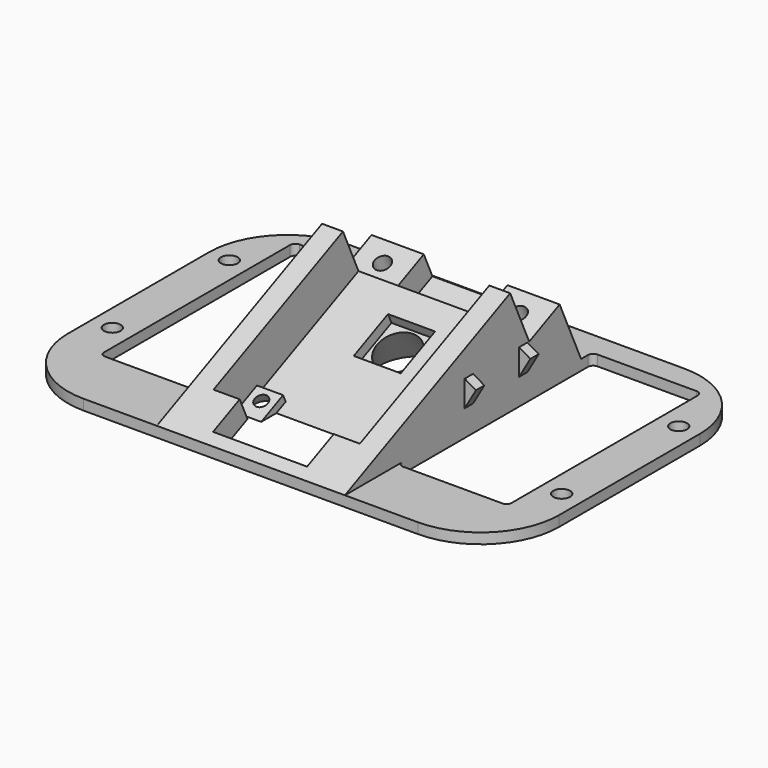
from build123d import *

# Parameters (mm, degrees)
PAD127_DEPTH       = 2
PAD128_DEPTH       = 18
PAD128_DEPTH_BACK  = 18
SKETCH333_W        = 21
SKETCH333_H        = 46.5
POCKET160_DEPTH    = 2
FILLET052_R        = 1
POCKET161_DEPTH    = 36
SKETCH335_W        = 28
SKETCH335_H        = 9
POCKET162_DEPTH    = 26
POCKET163_DEPTH    = 15
POCKET164_DEPTH    = 8
POCKET164_FACE50_W = 7
POCKET164_FACE50_H = 18
POCKET165_DEPTH    = 5
SKETCH338_R        = 5
SKETCH337_R        = 1.25
SKETCH339_W        = 9
SKETCH339_H        = 9
POCKET166_DEPTH    = 2
SKETCH341_R        = 12
SKETCH340_R        = 4
SKETCH_R           = 1.6
POCKET_DEPTH       = 5
PAD_DEPTH          = 2
PAD129_DEPTH       = 2
SKETCH346_R        = 1.5
POCKET167_DEPTH    = 5
SKETCH349_W        = 16
SKETCH349_H        = 8
POCKET169_DEPTH    = 5


with BuildPart() as part:
    # Sketch331 → Pad127 (new body)
    with BuildSketch(Plane.XY.offset(42)):
        with BuildLine():
            ThreePointArc((10, 0.35), (14.3933982822, -10.2566017178), (25, -14.65))
            Line((25, -14.65), (89, -14.65))
            ThreePointArc((89, -14.65), (99.6066017178, -10.2566017178), (104, 0.35))
            Line((104, 34.05), (104, 0.35))
            ThreePointArc((104, 34.05), (99.6066017178, 44.6566017178), (89, 49.05))
            Line((25, 49.05), (89, 49.05))
            ThreePointArc((25, 49.05), (14.3933982822, 44.6566017178), (10, 34.05))
            Line((10, 34.05), (10, 0.35))
        make_face()
    extrude(amount=PAD127_DEPTH)

    # Sketch332 → Pad128 (join, two sides)
    with BuildSketch(Plane.YZ.offset(57)) as pad128_sk:
        Polygon((-14.65, 44), (49.05, 44), (49.05, 72.9546061157), align=None)
    extrude(amount=PAD128_DEPTH)
    extrude(pad128_sk.sketch, amount=-PAD128_DEPTH_BACK)

    # Sketch333 (on Face8 of Pad128) → Pocket160 (cut)
    with BuildSketch(Plane.XY.offset(44)):
        with Locations((85.5, 21.25)):
            Rectangle(SKETCH333_W, SKETCH333_H)
        with Locations((28.5, 21.25)):
            Rectangle(SKETCH333_W, SKETCH333_H)
    extrude(amount=-POCKET160_DEPTH, mode=Mode.SUBTRACT)

    # Fillet052
    fillet052_edges = [part.edges().sort_by_distance(p)[0] for p in [
        (75, 44.5, 43),
        (96, 44.5, 43),
        (75, -2, 43),
        (96, -2, 43),
        (18, -2, 43),
        (39, -2, 43),
        (39, 44.5, 43),
        (18, 44.5, 43),
    ]]
    fillet(fillet052_edges, radius=FILLET052_R)

    # Sketch334 (on Face31 of Fillet052) → Pocket161 (cut)
    with BuildSketch(Plane.YZ.offset(75)):
        Polygon((41.8376729515, 44), (49.05, 44), (49.05, 72.9546061157), (24.8821634172, 61.9692028359), (29.4340037078, 51.9551751763), (36.7169329149, 55.2656044786), align=None)
    extrude(amount=-POCKET161_DEPTH, mode=Mode.SUBTRACT)

    # Sketch335 (on Face32 of Pocket161) → Pocket162 (cut)
    with BuildSketch(Plane(origin=(0, 43.9660990716, 19.9846323558), x_dir=(-1, 0, 0), z_dir=(0, 0.9103661509, 0.4138036628))):
        with Locations((-57, 41.6183342984)):
            Rectangle(SKETCH335_W, SKETCH335_H)
    extrude(amount=-POCKET162_DEPTH, mode=Mode.SUBTRACT)

    # Sketch336 (on Face36 of Pocket162) → Pocket163 (cut)
    with BuildSketch(Plane(origin=(0, 20.2965791488, 9.2257371233), x_dir=(-1, 0, 0), z_dir=(0, 0.9103661509, 0.4138036628))):
        Polygon((-71, 41.6183342984), (-71, 39.4183342984), (-66, 39.4183342984), (-66, 37.1183342984), (-48, 37.1183342984), (-48, 38.6183342984), (-43, 38.6183342984), (-43, 41.6183342984), (-48, 41.6183342984), (-48, 44.9183342984), (-66, 44.9183342984), (-66, 41.6183342984), align=None)
    extrude(amount=-POCKET163_DEPTH, mode=Mode.SUBTRACT)

    # Pocket163 Face47 → Pocket164 (cut)
    with BuildSketch(Plane(origin=(57, 1.9222608566, 49.6491526771), x_dir=(1, 0, 0), z_dir=(0, 0.9103661509, 0.4138036628))):
        Polygon((14, -1.7148648649), (14, 2.7851351351), (9, 2.7851351351), (9, -0.5148648649), (-9, -0.5148648649), (-9, 2.7851351351), (-14, 2.7851351351), (-14, -1.7148648649), align=None)
    extrude(amount=-POCKET164_DEPTH, mode=Mode.SUBTRACT)

    # Pocket164 Face50 → Pocket165 (cut)
    with BuildSketch(Plane(origin=(57, -8.7600028454, 45.3591261002), x_dir=(0, -0.9103661509, -0.4138036628), z_dir=(0, 0.4138036628, -0.9103661509))):
        Rectangle(POCKET164_FACE50_W, POCKET164_FACE50_H)
    extrude(amount=-POCKET165_DEPTH, mode=Mode.SUBTRACT)

    # Sketch338 (on Face15 of Pocket165) → SubtractiveLoft002 section 0
    with BuildSketch(Plane(origin=(0, -11.594089358, 25.5069431492), x_dir=(1, 0, 0), z_dir=(0, -0.4138036628, 0.9103661509))):
        with Locations((45.5, 20)):
            Circle(SKETCH338_R)
    # Sketch337 (on Face15 of Pocket165) → SubtractiveLoft002 section 1
    with BuildSketch(Plane(origin=(0, -15.9804081835, 35.1568243485), x_dir=(1, 0, 0), z_dir=(0, -0.4138036628, 0.9103661509))):
        with Locations((45.5, 20)):
            Circle(SKETCH337_R)
    loft(mode=Mode.SUBTRACT)

    # Sketch339 (on Face49 of SubtractiveLoft002) → Pocket166 (cut)
    with BuildSketch(Plane(origin=(0, -15.3597026894, 33.7912751222), x_dir=(1, 0, 0), z_dir=(0, -0.4138036628, 0.9103661509))):
        with Locations((57, 38.5)):
            Rectangle(SKETCH339_W, SKETCH339_H)
    extrude(amount=-POCKET166_DEPTH, mode=Mode.SUBTRACT)

    # Sketch341 (on Face64 of Pocket166) → SubtractiveLoft003 section 0
    with BuildSketch(Plane(origin=(0, -5.8008380789, 12.761817037), x_dir=(1, 0, 0), z_dir=(0, -0.4138036628, 0.9103661509))):
        with Locations((57, 38.5)):
            Circle(SKETCH341_R)
    # Sketch340 (on Face64 of Pocket166) → SubtractiveLoft003 section 1
    with BuildSketch(Plane(origin=(0, -14.5320953638, 31.9705428205), x_dir=(1, 0, 0), z_dir=(0, -0.4138036628, 0.9103661509))):
        with Locations((57, 38.5)):
            Circle(SKETCH340_R)
    loft(mode=Mode.SUBTRACT)

    # Sketch (on Face42 of SubtractiveLoft003) → Pocket (cut)
    with BuildSketch(Plane.XY.offset(44)):
        with Locations((14, 33.95)):
            Circle(SKETCH_R)
        with Locations((100, 33.95)):
            Circle(SKETCH_R)
        with Locations((100, 5.95)):
            Circle(SKETCH_R)
        with Locations((14, 5.95)):
            Circle(SKETCH_R)
    extrude(amount=-POCKET_DEPTH, mode=Mode.SUBTRACT)

    # Sketch344 → Pad (join)
    with BuildSketch(Plane.XZ.offset(-29)):
        Polygon((39, 47), (39, 52), (36.8349364905, 50.75), align=None)
        Polygon((75, 52), (75, 47), (77.1650635095, 50.75), align=None)
    extrude(amount=PAD_DEPTH)

    # Sketch345 → Pad129 (join)
    with BuildSketch(Plane.XZ.offset(-16)):
        Polygon((39, 47), (39, 52), (36.8349364905, 50.75), align=None)
        Polygon((75, 52), (75, 47), (77.1650635095, 50.75), align=None)
    extrude(amount=PAD129_DEPTH)

    # Sketch346 (on Face69 of Pad129) → Pocket167 (cut)
    with BuildSketch(Plane(origin=(0, -14.5320953638, 31.9705428205), x_dir=(1, 0, 0), z_dir=(0, -0.4138036628, 0.9103661509))):
        with Locations((44, 52.2949624492)):
            Circle(SKETCH346_R)
        with Locations((70, 52.2949624492)):
            Circle(SKETCH346_R)
    extrude(amount=-POCKET167_DEPTH, mode=Mode.SUBTRACT)

    # Sketch349 (on Face69 of Pocket167) → Pocket169 (cut)
    with BuildSketch(Plane(origin=(0, -14.5320953638, 31.9705428205), x_dir=(1, 0, 0), z_dir=(0, -0.4138036628, 0.9103661509))):
        with Locations((57, 52.2949624492)):
            Rectangle(SKETCH349_W, SKETCH349_H)
    extrude(amount=-POCKET169_DEPTH, mode=Mode.SUBTRACT)


with BuildPart() as part_1:
    # Body088 placement: moved
    add(part.part.moved(Location((0, -14.45, 31.85))))


solid = part_1.part
